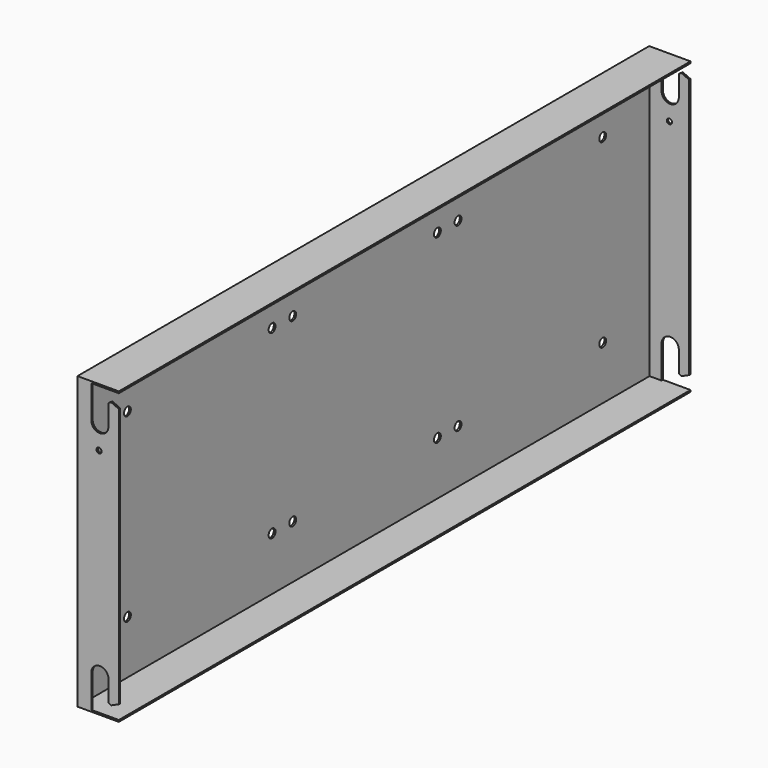
from build123d import *

# Parameters (mm, degrees)
F0_W     = 415
F0_H     = 169
F1_DEPTH = 24
F2_W     = 413
F2_H     = 167
F3_DEPTH = 23
F5_DEPTH = 415.001
F6_R     = 1.5
F7_DEPTH = 415.001
F8_R     = 2.5
F9_DEPTH = 1


with BuildPart() as f1:
    # F0 (on Right) → F1 (new body)
    with BuildSketch(Plane.YZ):
        Rectangle(F0_W, F0_H)
    extrude(amount=F1_DEPTH)

    # F2 (on face) → F3 (cut)
    with BuildSketch(Plane.YZ.offset(24)):
        Rectangle(F2_W, F2_H)
    extrude(amount=-F3_DEPTH, mode=Mode.SUBTRACT)

    # F4 (on face) → F5 (cut, through all)
    with BuildSketch(Plane.XZ.offset(207.5)):
        with BuildLine():
            Line((8, -83.5), (24, -83.5))
            Line((24, -83.5), (24, -75.5))
            Line((24, -75.5), (19.5, -77.5))
            Line((19.5, -77.5), (18, -76.5))
            Line((18, -76.5), (18, -64.5))
            ThreePointArc((18, -64.5), (13, -59.5), (8, -64.5))
            Line((8, -64.5), (8, -83.5))
        make_face()
        with BuildLine():
            Line((18, 64.5), (18, 76.5))
            Line((18, 76.5), (19.5, 77.5))
            Line((19.5, 77.5), (24, 75.5))
            Line((24, 75.5), (24, 83.5))
            Line((24, 83.5), (8, 83.5))
            Line((8, 83.5), (8, 64.5))
            ThreePointArc((8, 64.5), (13, 59.5), (18, 64.5))
        make_face()
    extrude(amount=-F5_DEPTH, mode=Mode.SUBTRACT)

    # F6 (on face) → F7 (cut, through all)
    with BuildSketch(Plane.XZ.offset(207.5)):
        with Locations((12.5, 50.5)):
            Circle(F6_R)
    extrude(amount=-F7_DEPTH, mode=Mode.SUBTRACT)

    # F8 (on face) → F9 (cut, through all)
    with BuildSketch(Plane(origin=(0, 0, 0), x_dir=(0, -1, 0), z_dir=(-1, 0, 0))):
        with Locations((-172.5, 52.5)):
            Circle(F8_R)
        with Locations((-67.5, 52.5)):
            Circle(F8_R)
        with Locations((-52.5, 52.5)):
            Circle(F8_R)
        with Locations((-67.5, -52.5)):
            Circle(F8_R)
        with Locations((-172.5, -52.5)):
            Circle(F8_R)
        with Locations((-52.5, -52.5)):
            Circle(F8_R)
        with Locations((67.5, -52.5)):
            Circle(F8_R)
        with Locations((52.5, 52.5)):
            Circle(F8_R)
        with Locations((67.5, 52.5)):
            Circle(F8_R)
        with Locations((172.5, 52.5)):
            Circle(F8_R)
        with Locations((172.5, -52.5)):
            Circle(F8_R)
        with Locations((52.5, -52.5)):
            Circle(F8_R)
    extrude(amount=-F9_DEPTH, mode=Mode.SUBTRACT)


solid = f1.part
